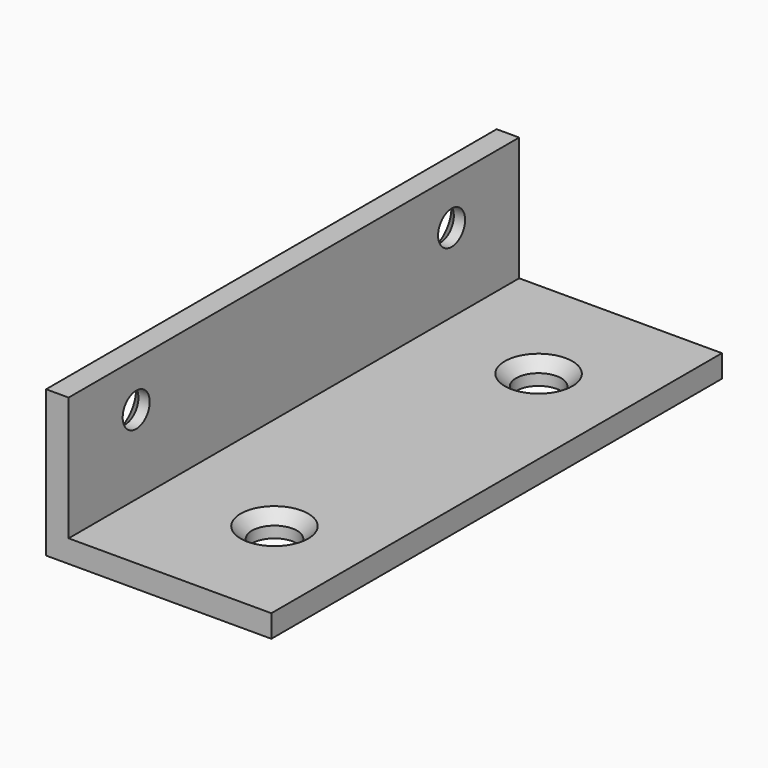
from build123d import *

# Parameters (mm, degrees)
SKETCH_W        = 20
SKETCH_H        = 50
SKETCH_R        = 2
PAD_DEPTH       = 2
SKETCH001_W     = 2
SKETCH001_H     = 50
PAD001_DEPTH    = 13
SKETCH002_R     = 1.5
POCKET_DEPTH    = 10
CHAMFER_SIZE    = 1
CHAMFER001_SIZE = 1


with BuildPart() as part:
    # Sketch → Pad (new body)
    with BuildSketch(Plane.XY):
        with Locations((10, 25)):
            Rectangle(SKETCH_W, SKETCH_H)
        with Locations((12, 39.655)):
            Circle(SKETCH_R, mode=Mode.SUBTRACT)
        with Locations((12, 10.345)):
            Circle(SKETCH_R, mode=Mode.SUBTRACT)
    extrude(amount=PAD_DEPTH)

    # Sketch001 → Pad001 (join)
    with BuildSketch(Plane.XY):
        with Locations((1, 25)):
            Rectangle(SKETCH001_W, SKETCH001_H)
    extrude(amount=PAD001_DEPTH)

    # Sketch002 (on Face10 of Pad001) → Pocket (cut)
    with BuildSketch(Plane.YZ.offset(2)):
        with Locations((7.5, 9)):
            Circle(SKETCH002_R)
        with Locations((42.5, 9)):
            Circle(SKETCH002_R)
    extrude(amount=-POCKET_DEPTH, mode=Mode.SUBTRACT)

    # Chamfer
    chamfer_edges = [part.edges().sort_by_distance(p)[0] for p in [
        (10, 39.655, 2),
        (10, 10.345, 2),
    ]]
    chamfer(chamfer_edges, length=CHAMFER_SIZE)

    # Chamfer001
    chamfer001_edges = [part.edges().sort_by_distance(p)[0] for p in [
        (0, 41, 9),
        (0, 6, 9),
    ]]
    chamfer(chamfer001_edges, length=CHAMFER001_SIZE)


solid = part.part
